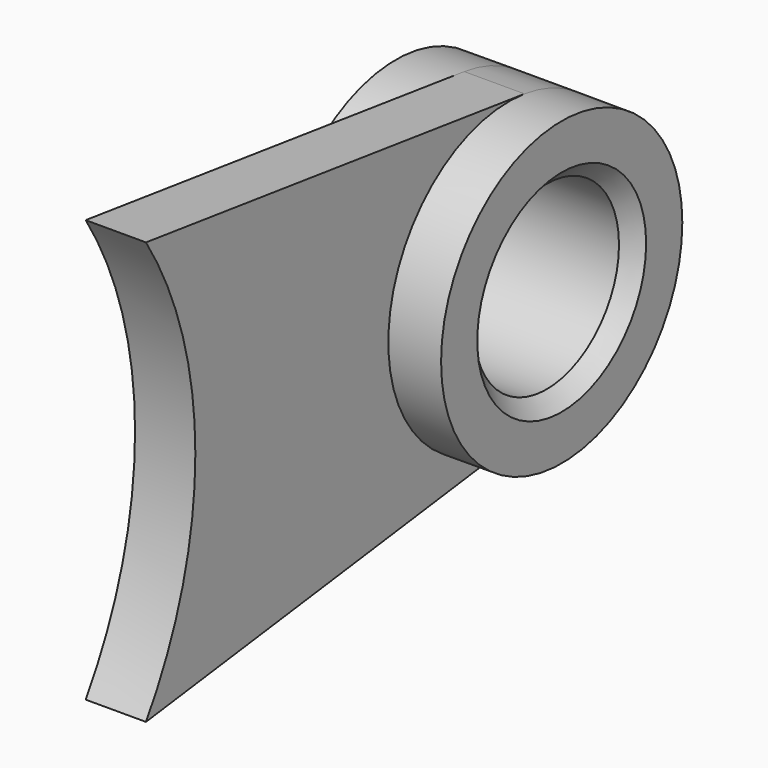
from build123d import *

# Parameters (mm, degrees)
F0_R     = 38.1
F1_DEPTH = 12.7
F2_R     = 63.5
F2_R_2   = 38.1
F3_DEPTH = 34.925
F4_SIZE  = 6.35


with BuildPart() as f1:
    # F0 (on Right) → F1 (new body, symmetric)
    with BuildSketch(Plane.YZ):
        with BuildLine():
            ThreePointArc((139.12153, 88.9), (165.1, 0), (139.12153, -88.9))
            Line((139.12153, -88.9), (338.394032, -62.969102))
            ThreePointArc((338.394032, -62.969102), (393.7, 0), (338.394032, 62.969102))
            Line((338.394032, 62.969102), (139.12153, 88.9))
        make_face()
        with Locations((330.2, 0)):
            Circle(F0_R, mode=Mode.SUBTRACT)
    extrude(amount=F1_DEPTH, both=True)

    # F2 (on Right) → F3 (join, symmetric)
    with BuildSketch(Plane.YZ):
        with Locations((330.2, 0)):
            Circle(F2_R)
        with Locations((330.2, 0)):
            Circle(F2_R_2, mode=Mode.SUBTRACT)
    extrude(amount=F3_DEPTH, both=True)

    # F4
    f4_edges = [f1.edges().sort_by_distance(p)[0] for p in [
        (-34.925, 292.1, 0),
        (34.925, 292.1, 0),
    ]]
    chamfer(f4_edges, length=F4_SIZE)


solid = f1.part
